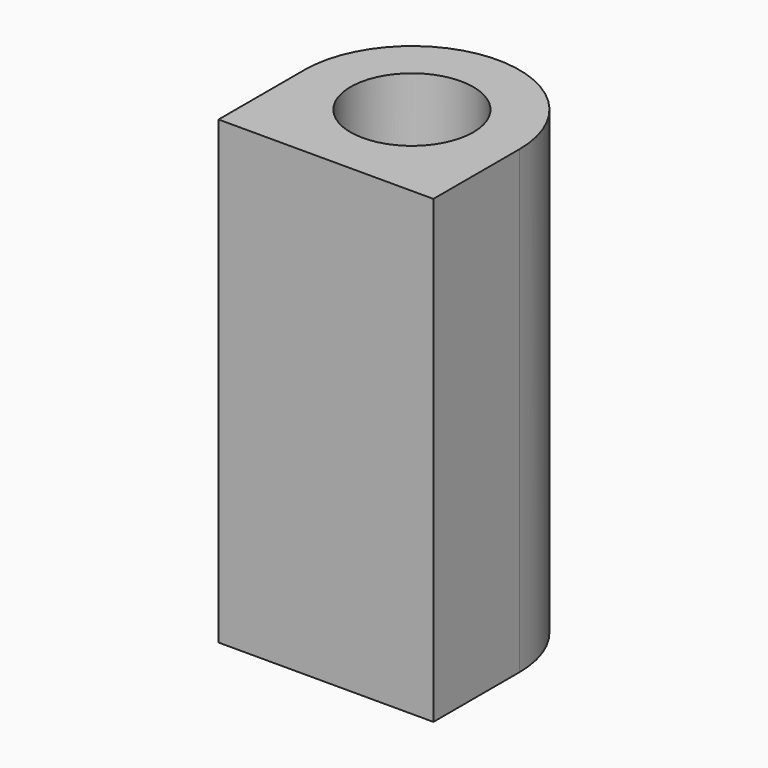
from build123d import *

# Parameters (mm, degrees)
SKETCH_R  = 4
PAD_DEPTH = 30


with BuildPart() as part:
    # Sketch → Pad (new body)
    with BuildSketch(Plane.XY):
        with BuildLine():
            ThreePointArc((7, 0), (0, 7), (-7, 0))
            Line((-7, -7), (-7, 0))
            Line((7, -7), (-7, -7))
            Line((7, 0), (7, -7))
        make_face()
        Circle(SKETCH_R, mode=Mode.SUBTRACT)
    extrude(amount=PAD_DEPTH)


solid = part.part
